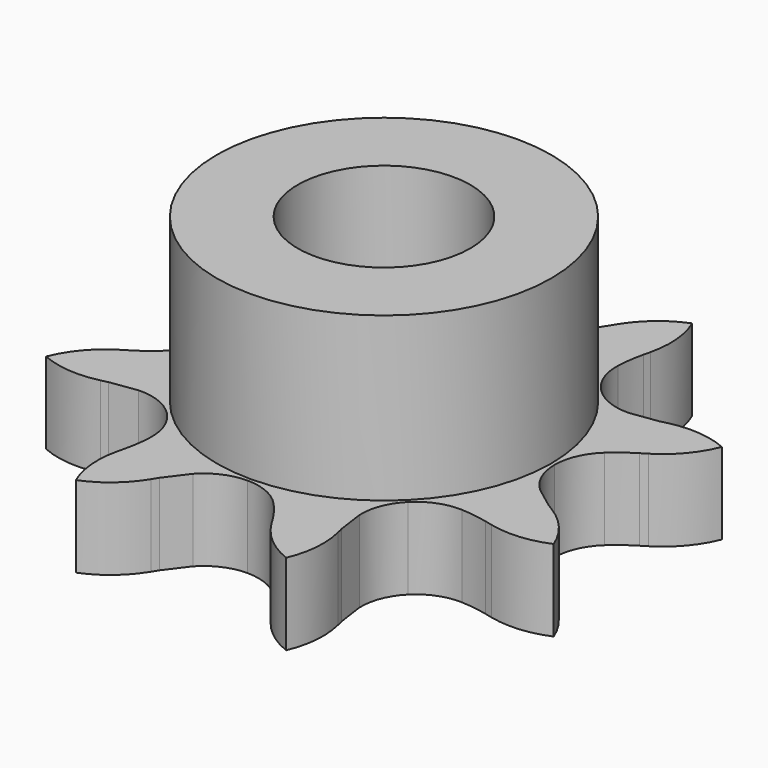
from build123d import *

# Parameters (mm, degrees)
PAD_DEPTH    = 6
SKETCH_R     = 12.315
PAD001_DEPTH = 12
SKETCH001_R  = 6.35
POCKET_DEPTH = 18


with BuildPart() as part:
    # Sprocket → Pad (new body)
    with BuildSketch(Plane.XY):
        with BuildLine():
            ThreePointArc((-7.741217, 18.688951), (-5.866931, 17.566734), (-4.442485, 15.910452))
            Line((-4.442485, 15.910452), (-4.167177, 15.46119))
            ThreePointArc((-4.167177, 15.46119), (-3.606611, 14.637889), (-2.969716, 13.872106))
            ThreePointArc((-2.969716, 13.872106), (-1.622244, 12.906521), (0, 12.5654))
            ThreePointArc((0, 12.5654), (1.622244, 12.906521), (2.969716, 13.872106))
            ThreePointArc((2.969716, 13.872106), (3.606611, 14.637889), (4.167177, 15.46119))
            Line((4.167177, 15.46119), (4.442485, 15.910452))
            ThreePointArc((4.442485, 15.910452), (5.866931, 17.566734), (7.741217, 18.688951))
            ThreePointArc((7.741217, 18.688951), (8.27301, 16.570104), (8.109077, 14.391699))
            Line((8.109077, 14.391699), (7.986073, 13.879351))
            ThreePointArc((7.986073, 13.879351), (7.800291, 12.90081), (7.709154, 11.908967))
            ThreePointArc((7.709154, 11.908967), (7.979189, 10.273388), (8.885079, 8.885079))
            ThreePointArc((8.885079, 8.885079), (10.273388, 7.979189), (11.908967, 7.709154))
            Line((11.908967, 7.709154), (13.879351, 7.986073))
            ThreePointArc((13.879351, 7.986073), (14.134744, 8.050827), (14.391699, 8.109077))
            ThreePointArc((14.391699, 8.109077), (16.570104, 8.27301), (18.688951, 7.741217))
            ThreePointArc((18.688951, 7.741217), (17.566734, 5.866931), (15.910452, 4.442485))
            Line((15.910452, 4.442485), (15.46119, 4.167177))
            ThreePointArc((15.46119, 4.167177), (14.637889, 3.606611), (13.872106, 2.969716))
            ThreePointArc((13.872106, 2.969716), (12.906521, 1.622244), (12.5654, 0))
            ThreePointArc((12.5654, 0), (12.906521, -1.622244), (13.872106, -2.969716))
            Line((13.872106, -2.969716), (15.46119, -4.167177))
            ThreePointArc((15.46119, -4.167177), (15.687568, -4.30198), (15.910452, -4.442485))
            ThreePointArc((15.910452, -4.442485), (17.566734, -5.866931), (18.688951, -7.741217))
            ThreePointArc((18.688951, -7.741217), (16.570104, -8.27301), (14.391699, -8.109077))
            Line((14.391699, -8.109077), (13.879351, -7.986073))
            ThreePointArc((13.879351, -7.986073), (12.90081, -7.800291), (11.908967, -7.709154))
            ThreePointArc((11.908967, -7.709154), (10.273388, -7.979189), (8.885079, -8.885079))
            ThreePointArc((8.885079, -8.885079), (7.979189, -10.273388), (7.709154, -11.908967))
            Line((7.709154, -11.908967), (7.986073, -13.879351))
            ThreePointArc((7.986073, -13.879351), (8.050827, -14.134744), (8.109077, -14.391699))
            ThreePointArc((8.109077, -14.391699), (8.27301, -16.570104), (7.741217, -18.688951))
            ThreePointArc((7.741217, -18.688951), (5.866931, -17.566734), (4.442485, -15.910452))
            Line((4.442485, -15.910452), (4.167177, -15.46119))
            ThreePointArc((4.167177, -15.46119), (3.606611, -14.637889), (2.969716, -13.872106))
            ThreePointArc((2.969716, -13.872106), (1.622244, -12.906521), (0, -12.5654))
            ThreePointArc((0, -12.5654), (-1.622244, -12.906521), (-2.969716, -13.872106))
            Line((-2.969716, -13.872106), (-4.167177, -15.46119))
            ThreePointArc((-4.167177, -15.46119), (-4.30198, -15.687568), (-4.442485, -15.910452))
            ThreePointArc((-4.442485, -15.910452), (-5.866931, -17.566734), (-7.741217, -18.688951))
            ThreePointArc((-7.741217, -18.688951), (-8.27301, -16.570104), (-8.109077, -14.391699))
            Line((-8.109077, -14.391699), (-7.986073, -13.879351))
            ThreePointArc((-7.986073, -13.879351), (-7.800291, -12.90081), (-7.709154, -11.908967))
            ThreePointArc((-7.709154, -11.908967), (-7.979189, -10.273388), (-8.885079, -8.885079))
            ThreePointArc((-8.885079, -8.885079), (-10.273388, -7.979189), (-11.908967, -7.709154))
            Line((-11.908967, -7.709154), (-13.879351, -7.986073))
            ThreePointArc((-13.879351, -7.986073), (-14.134744, -8.050827), (-14.391699, -8.109077))
            ThreePointArc((-14.391699, -8.109077), (-16.570104, -8.27301), (-18.688951, -7.741217))
            ThreePointArc((-18.688951, -7.741217), (-17.566734, -5.866931), (-15.910452, -4.442485))
            Line((-15.910452, -4.442485), (-15.46119, -4.167177))
            ThreePointArc((-15.46119, -4.167177), (-14.637889, -3.606611), (-13.872106, -2.969716))
            ThreePointArc((-13.872106, -2.969716), (-12.906521, -1.622244), (-12.5654, 0))
            ThreePointArc((-12.5654, 0), (-12.906521, 1.622244), (-13.872106, 2.969716))
            Line((-13.872106, 2.969716), (-15.46119, 4.167177))
            ThreePointArc((-15.46119, 4.167177), (-15.687568, 4.30198), (-15.910452, 4.442485))
            ThreePointArc((-15.910452, 4.442485), (-17.566734, 5.866931), (-18.688951, 7.741217))
            ThreePointArc((-18.688951, 7.741217), (-16.570104, 8.27301), (-14.391699, 8.109077))
            Line((-14.391699, 8.109077), (-13.879351, 7.986073))
            ThreePointArc((-13.879351, 7.986073), (-12.90081, 7.800291), (-11.908967, 7.709154))
            ThreePointArc((-11.908967, 7.709154), (-10.273388, 7.979189), (-8.885079, 8.885079))
            ThreePointArc((-8.885079, 8.885079), (-7.979189, 10.273388), (-7.709154, 11.908967))
            Line((-7.709154, 11.908967), (-7.986073, 13.879351))
            ThreePointArc((-7.986073, 13.879351), (-8.050827, 14.134744), (-8.109077, 14.391699))
            ThreePointArc((-8.109077, 14.391699), (-8.27301, 16.570104), (-7.741217, 18.688951))
        make_face()
    extrude(amount=PAD_DEPTH)

    # Sketch (on Face50 of Pad) → Pad001 (join)
    with BuildSketch(Plane.XY.offset(6)):
        Circle(SKETCH_R)
    extrude(amount=PAD001_DEPTH)

    # Sketch001 (on Face60 of Pad001) → Pocket (cut)
    with BuildSketch(Plane.XY.offset(18)):
        Circle(SKETCH001_R)
    extrude(amount=-POCKET_DEPTH, mode=Mode.SUBTRACT)


solid = part.part
